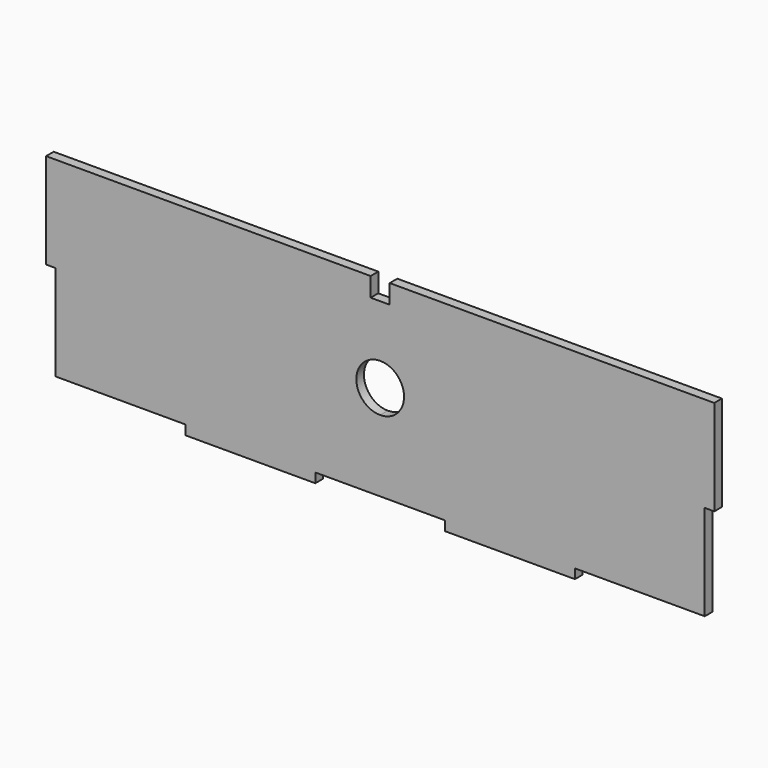
from build123d import *

# Parameters (mm, degrees)
F0_W     = 68
F0_H     = 5
F0_W_2   = 5
F0_H_2   = 50
F1_DEPTH = 5


with BuildPart() as f1:
    # F0 (on Front) → F1 (new body)
    with BuildSketch(Plane.XZ):
        with BuildLine():
            Line((102, -50), (170, -50))
            Line((170, -50), (170, 0))
            Line((170, 0), (170, 50))
            Line((170, 50), (5, 50))
            Line((5, 50), (5, 40))
            Line((5, 40), (0, 40))
            Line((0, 40), (0, 12.5))
            ThreePointArc((0, 12.5), (8.838835, 8.838835), (12.5, 0))
            ThreePointArc((12.5, 0), (8.838835, -8.838835), (0, -12.5))
            Line((0, -12.5), (0, -50))
            Line((0, -50), (34, -50))
            Line((34, -50), (102, -50))
        make_face()
        with Locations((68, -52.5)):
            Rectangle(F0_W, F0_H)
        with Locations((172.5, 25)):
            Rectangle(F0_W_2, F0_H_2)
        with BuildLine():
            Line((-34, -50), (0, -50))
            Line((0, -50), (0, -12.5))
            ThreePointArc((0, -12.5), (-12.5, 0), (0, 12.5))
            Line((0, 12.5), (0, 40))
            Line((0, 40), (-5, 40))
            Line((-5, 40), (-5, 50))
            Line((-5, 50), (-170, 50))
            Line((-170, 50), (-170, 0))
            Line((-170, 0), (-170, -50))
            Line((-170, -50), (-102, -50))
            Line((-102, -50), (-34, -50))
        make_face()
        with Locations((-68, -52.5)):
            Rectangle(F0_W, F0_H)
        with Locations((-172.5, 25)):
            Rectangle(F0_W_2, F0_H_2)
    extrude(amount=F1_DEPTH)


solid = f1.part
